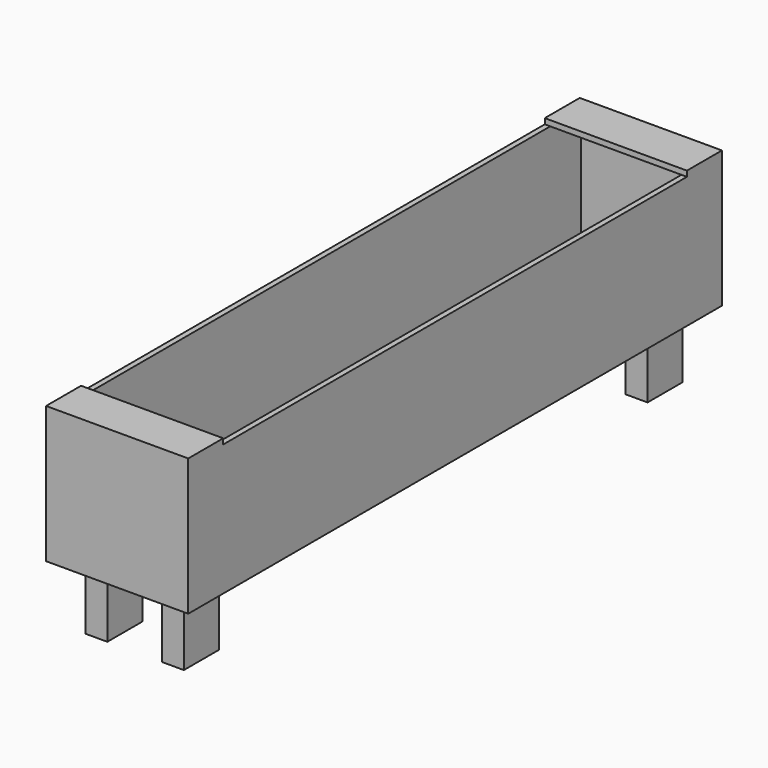
from build123d import *

# Parameters (mm, degrees)
F0_W     = 304.8
F0_H     = 12.7
F1_DEPTH = 1524
F3_DEPTH = 1524
F4_W     = 12.7
F4_H     = 304.8
F5_DEPTH = 330.2
F6_W     = 101.6
F6_H     = 12.7
F7_DEPTH = 330.2
F8_W     = 50.8
F8_H     = 101.6
F9_DEPTH = 152.4


with BuildPart() as f1:
    # F0 (on Front) → F1 (new body)
    with BuildSketch(Plane.XZ):
        with Locations((-108.432242626, -17.0491518617)):
            Rectangle(F0_W, F0_H)
    extrude(amount=F1_DEPTH)

    # F2 (on face) → F3 (join)
    with BuildSketch(Plane.XZ.offset(1524)):
        Polygon((-273.532242626, -23.3991518617), (-260.832242626, -23.3991518617), (-260.832242626, -10.6991518617), (-260.832242626, 281.4008481383), (-273.532242626, 281.4008481383), align=None)
        Polygon((43.967757374, -10.6991518617), (43.967757374, -23.3991518617), (56.667757374, -23.3991518617), (56.667757374, 281.4008481383), (43.967757374, 281.4008481383), align=None)
    extrude(amount=-F3_DEPTH)

    # F4 (on face) → F5 (join)
    with BuildSketch(Plane(origin=(-273.532242626, 0, 0), x_dir=(0, -1, 0), z_dir=(-1, 0, 0))):
        with Locations((-6.35, 129.0008481383)):
            Rectangle(F4_W, F4_H)
        with Locations((1530.35, 129.0008481383)):
            Rectangle(F4_W, F4_H)
    extrude(amount=-F5_DEPTH)

    # F6 (on face) → F7 (join)
    with BuildSketch(Plane(origin=(-273.532242626, 0, 0), x_dir=(0, -1, 0), z_dir=(-1, 0, 0))):
        with Locations((1485.9, 287.7508481383)):
            Rectangle(F6_W, F6_H)
        with Locations((38.1, 287.7508481383)):
            Rectangle(F6_W, F6_H)
    extrude(amount=-F7_DEPTH)

    # F8 (on face) → F9 (join)
    with BuildSketch(Plane(origin=(0, 0, -23.3991518617), x_dir=(1, 0, 0), z_dir=(0, 0, -1))):
        with Locations((-197.332242626, 88.9)):
            Rectangle(F8_W, F8_H)
        with Locations((-19.532242626, 88.9)):
            Rectangle(F8_W, F8_H)
        with Locations((-197.332242626, 1435.1)):
            Rectangle(F8_W, F8_H)
        with Locations((-19.532242626, 1435.1)):
            Rectangle(F8_W, F8_H)
    extrude(amount=F9_DEPTH)


solid = f1.part
